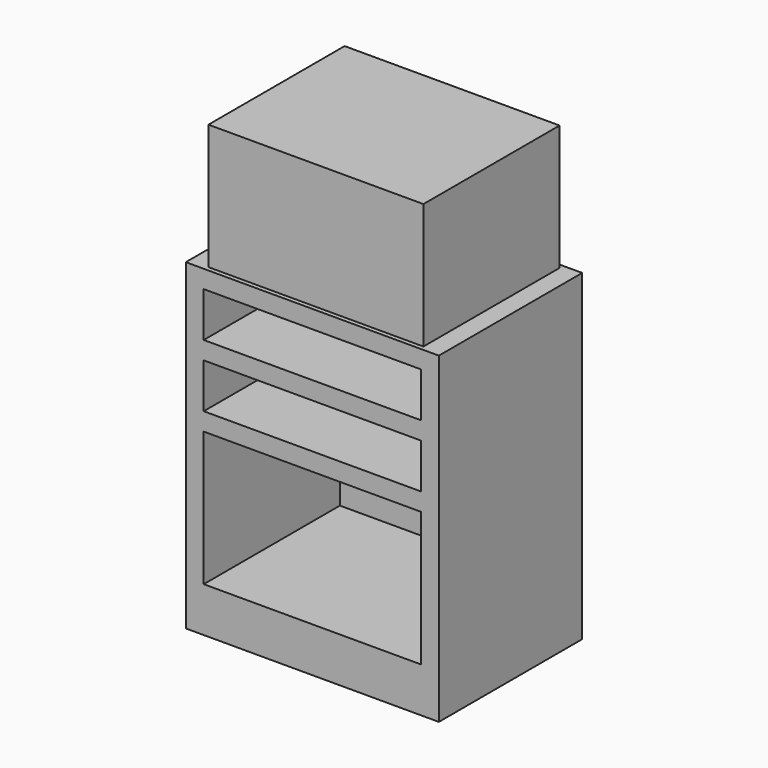
from build123d import *

# Parameters (mm, degrees)
F0_W     = 717.55
F0_H     = 508
F1_DEPTH = 914.4
F2_W     = 609.6
F2_H     = 482.6
F3_DEPTH = 355.6
F4_W     = 615.95
F4_H     = 127
F4_H_2   = 381
F5_DEPTH = 482.6


with BuildPart() as f1:
    # F0 (on Top) → F1 (new body)
    with BuildSketch(Plane.XY):
        Rectangle(F0_W, F0_H)
    extrude(amount=F1_DEPTH)

    # F4 (on face) → F5 (cut)
    with BuildSketch(Plane.XZ.offset(254)):
        with Locations((0, 800.1)):
            Rectangle(F4_W, F4_H)
        with Locations((0, 317.5)):
            Rectangle(F4_W, F4_H_2)
        with Locations((0, 622.3)):
            Rectangle(F4_W, F4_H)
    extrude(amount=-F5_DEPTH, mode=Mode.SUBTRACT)


with BuildPart() as f3:
    # F2 (on face) → F3 (new body)
    with BuildSketch(Plane.XY.offset(914.4)):
        Rectangle(F2_W, F2_H)
    extrude(amount=F3_DEPTH)


solid = Compound([f1.part, f3.part])
